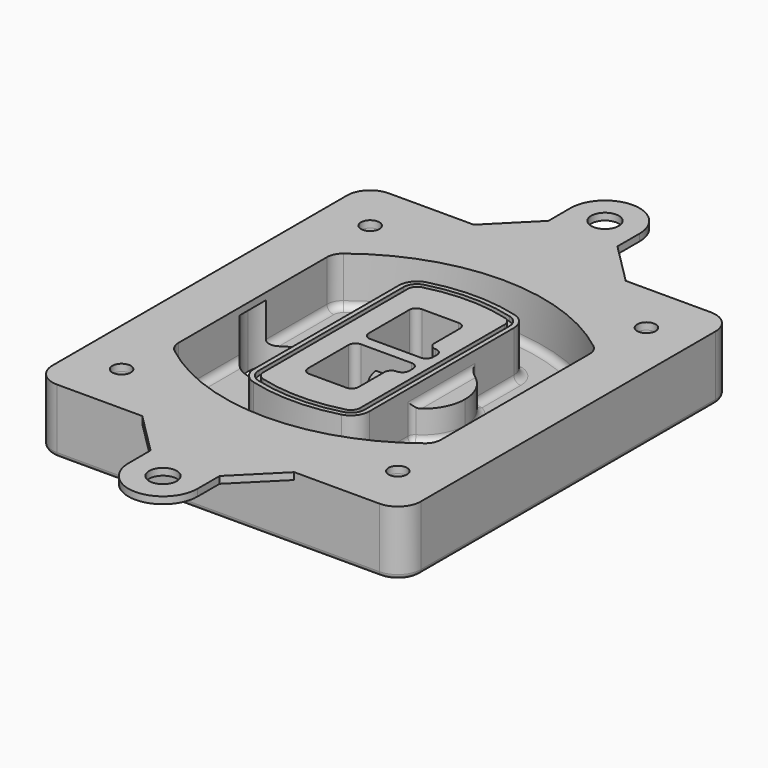
from build123d import *

# Parameters (mm, degrees)
F0_R      = 4
F1_DEPTH  = 25
F2_DEPTH  = 3
F3_DEPTH  = 18
F5_DEPTH  = 21
F6_DEPTH  = 2
F8_DEPTH  = 20
F9_DEPTH  = 16
F10_DEPTH = 25
F7_R      = 6
F7_R_2    = 4
F11_DEPTH = 6
F13_DEPTH = 9
F14_R     = 3
F15_R     = 2
F16_R     = 6
F16_R_2   = 4
F17_DEPTH = 3


with BuildPart() as f1:
    # F0 (on Top) → F1 (new body)
    with BuildSketch(Plane.XY):
        with BuildLine():
            ThreePointArc((14.05, 38.3825811321), (16.9789321881, 31.3115133202), (24.05, 28.3825811321))
            Line((24.05, 28.3825811321), (164.05, 28.3825811321))
            ThreePointArc((164.05, 28.3825811321), (171.1210678119, 31.3115133202), (174.05, 38.3825811321))
            Line((174.05, 38.3825811321), (174.05, 198.3825811321))
            ThreePointArc((174.05, 198.3825811321), (171.1210678119, 205.4536489439), (164.05, 208.3825811321))
            Line((164.05, 208.3825811321), (24.05, 208.3825811321))
            ThreePointArc((24.05, 208.3825811321), (16.9789321881, 205.4536489439), (14.05, 198.3825811321))
            Line((14.05, 198.3825811321), (14.05, 38.3825811321))
        make_face()
        with Locations((34.05, 50.8825811321)):
            Circle(F0_R, mode=Mode.SUBTRACT)
        with Locations((154.05, 50.8825811321)):
            Circle(F0_R, mode=Mode.SUBTRACT)
        with Locations((34.05, 185.8825811321)):
            Circle(F0_R, mode=Mode.SUBTRACT)
        with BuildLine():
            ThreePointArc((30.05, 158.6760234193), (31.4679615202, 164.8154295545), (35.4346153846, 169.7112011673))
            ThreePointArc((35.4346153846, 169.7112011673), (94.05, 189.8825811321), (152.6653846154, 169.7112011673))
            ThreePointArc((152.6653846154, 169.7112011673), (156.6320384798, 164.8154295545), (158.05, 158.6760234193))
            Line((158.05, 158.6760234193), (158.05, 78.0891388448))
            ThreePointArc((158.05, 78.0891388448), (156.6320384798, 71.9497327097), (152.6653846154, 67.0539610969))
            ThreePointArc((152.6653846154, 67.0539610969), (94.05, 46.8825811321), (35.4346153846, 67.0539610969))
            ThreePointArc((35.4346153846, 67.0539610969), (31.4679615202, 71.9497327097), (30.05, 78.0891388448))
            Line((30.05, 78.0891388448), (30.05, 158.6760234193))
        make_face(mode=Mode.SUBTRACT)
        with Locations((154.05, 185.8825811321)):
            Circle(F0_R, mode=Mode.SUBTRACT)
        with BuildLine():
            ThreePointArc((152.6653846154, 169.7112011673), (94.05, 189.8825811321), (35.4346153846, 169.7112011673))
            ThreePointArc((35.4346153846, 169.7112011673), (31.4679615202, 164.8154295545), (30.05, 158.6760234193))
            Line((30.05, 158.6760234193), (30.05, 78.0891388448))
            ThreePointArc((30.05, 78.0891388448), (31.4679615202, 71.9497327097), (35.4346153846, 67.0539610969))
            ThreePointArc((35.4346153846, 67.0539610969), (94.05, 46.8825811321), (152.6653846154, 67.0539610969))
            ThreePointArc((152.6653846154, 67.0539610969), (156.6320384798, 71.9497327097), (158.05, 78.0891388448))
            Line((158.05, 78.0891388448), (158.05, 158.6760234193))
            ThreePointArc((158.05, 158.6760234193), (156.6320384798, 164.8154295545), (152.6653846154, 169.7112011673))
        make_face()
        with BuildLine():
            Line((34.05, 78.0891388448), (34.05, 158.6760234193))
            ThreePointArc((34.05, 158.6760234193), (35.0628296573, 163.0613135158), (37.8961538462, 166.5582932393))
            ThreePointArc((37.8961538462, 166.5582932393), (94.05, 185.8825811321), (150.2038461538, 166.5582932393))
            ThreePointArc((150.2038461538, 166.5582932393), (153.0371703427, 163.0613135158), (154.05, 158.6760234193))
            Line((154.05, 158.6760234193), (154.05, 78.0891388448))
            ThreePointArc((154.05, 78.0891388448), (153.0371703427, 73.7038487483), (150.2038461538, 70.2068690248))
            ThreePointArc((150.2038461538, 70.2068690248), (94.05, 50.8825811321), (37.8961538462, 70.2068690248))
            ThreePointArc((37.8961538462, 70.2068690248), (35.0628296573, 73.7038487483), (34.05, 78.0891388448))
        make_face(mode=Mode.SUBTRACT)
        with BuildLine():
            ThreePointArc((37.8961538462, 166.5582932393), (35.0628296573, 163.0613135158), (34.05, 158.6760234193))
            Line((34.05, 158.6760234193), (34.05, 78.0891388448))
            ThreePointArc((34.05, 78.0891388448), (35.0628296573, 73.7038487483), (37.8961538462, 70.2068690248))
            ThreePointArc((37.8961538462, 70.2068690248), (94.05, 50.8825811321), (150.2038461538, 70.2068690248))
            ThreePointArc((150.2038461538, 70.2068690248), (153.0371703427, 73.7038487483), (154.05, 78.0891388448))
            Line((154.05, 78.0891388448), (154.05, 158.6760234193))
            ThreePointArc((154.05, 158.6760234193), (153.0371703427, 163.0613135158), (150.2038461538, 166.5582932393))
            ThreePointArc((150.2038461538, 166.5582932393), (94.05, 185.8825811321), (37.8961538462, 166.5582932393))
        make_face()
        with BuildLine():
            ThreePointArc((148.3576923077, 164.1936122933), (150.3410192399, 161.7457264869), (151.05, 158.6760234193))
            Line((151.05, 158.6760234193), (151.05, 78.0891388448))
            ThreePointArc((151.05, 78.0891388448), (150.3410192399, 75.0194357772), (148.3576923077, 72.5715499708))
            ThreePointArc((148.3576923077, 72.5715499708), (94.05, 53.8825811321), (39.7423076923, 72.5715499708))
            ThreePointArc((39.7423076923, 72.5715499708), (37.7589807601, 75.0194357772), (37.05, 78.0891388448))
            Line((37.05, 78.0891388448), (37.05, 158.6760234193))
            ThreePointArc((37.05, 158.6760234193), (37.7589807601, 161.7457264869), (39.7423076923, 164.1936122933))
            ThreePointArc((39.7423076923, 164.1936122933), (94.05, 182.8825811321), (148.3576923077, 164.1936122933))
        make_face(mode=Mode.SUBTRACT)
        with BuildLine():
            Line((151.05, 78.0891388448), (151.05, 158.6760234193))
            ThreePointArc((151.05, 158.6760234193), (150.3410192399, 161.7457264869), (148.3576923077, 164.1936122933))
            ThreePointArc((148.3576923077, 164.1936122933), (94.05, 182.8825811321), (39.7423076923, 164.1936122933))
            ThreePointArc((39.7423076923, 164.1936122933), (37.7589807601, 161.7457264869), (37.05, 158.6760234193))
            Line((37.05, 158.6760234193), (37.05, 78.0891388448))
            ThreePointArc((37.05, 78.0891388448), (37.7589807601, 75.0194357772), (39.7423076923, 72.5715499708))
            ThreePointArc((39.7423076923, 72.5715499708), (94.05, 53.8825811321), (148.3576923077, 72.5715499708))
            ThreePointArc((148.3576923077, 72.5715499708), (150.3410192399, 75.0194357772), (151.05, 78.0891388448))
        make_face()
    extrude(amount=-F1_DEPTH)

    # F0 (on Top) → F2 (join)
    with BuildSketch(Plane.XY):
        with BuildLine():
            ThreePointArc((37.8961538462, 166.5582932393), (35.0628296573, 163.0613135158), (34.05, 158.6760234193))
            Line((34.05, 158.6760234193), (34.05, 78.0891388448))
            ThreePointArc((34.05, 78.0891388448), (35.0628296573, 73.7038487483), (37.8961538462, 70.2068690248))
            ThreePointArc((37.8961538462, 70.2068690248), (94.05, 50.8825811321), (150.2038461538, 70.2068690248))
            ThreePointArc((150.2038461538, 70.2068690248), (153.0371703427, 73.7038487483), (154.05, 78.0891388448))
            Line((154.05, 78.0891388448), (154.05, 158.6760234193))
            ThreePointArc((154.05, 158.6760234193), (153.0371703427, 163.0613135158), (150.2038461538, 166.5582932393))
            ThreePointArc((150.2038461538, 166.5582932393), (94.05, 185.8825811321), (37.8961538462, 166.5582932393))
        make_face()
        with BuildLine():
            ThreePointArc((148.3576923077, 164.1936122933), (150.3410192399, 161.7457264869), (151.05, 158.6760234193))
            Line((151.05, 158.6760234193), (151.05, 78.0891388448))
            ThreePointArc((151.05, 78.0891388448), (150.3410192399, 75.0194357772), (148.3576923077, 72.5715499708))
            ThreePointArc((148.3576923077, 72.5715499708), (94.05, 53.8825811321), (39.7423076923, 72.5715499708))
            ThreePointArc((39.7423076923, 72.5715499708), (37.7589807601, 75.0194357772), (37.05, 78.0891388448))
            Line((37.05, 78.0891388448), (37.05, 158.6760234193))
            ThreePointArc((37.05, 158.6760234193), (37.7589807601, 161.7457264869), (39.7423076923, 164.1936122933))
            ThreePointArc((39.7423076923, 164.1936122933), (94.05, 182.8825811321), (148.3576923077, 164.1936122933))
        make_face(mode=Mode.SUBTRACT)
    extrude(amount=F2_DEPTH)

    # F0 (on Top) → F3 (cut)
    with BuildSketch(Plane.XY):
        with BuildLine():
            Line((151.05, 78.0891388448), (151.05, 158.6760234193))
            ThreePointArc((151.05, 158.6760234193), (150.3410192399, 161.7457264869), (148.3576923077, 164.1936122933))
            ThreePointArc((148.3576923077, 164.1936122933), (94.05, 182.8825811321), (39.7423076923, 164.1936122933))
            ThreePointArc((39.7423076923, 164.1936122933), (37.7589807601, 161.7457264869), (37.05, 158.6760234193))
            Line((37.05, 158.6760234193), (37.05, 78.0891388448))
            ThreePointArc((37.05, 78.0891388448), (37.7589807601, 75.0194357772), (39.7423076923, 72.5715499708))
            ThreePointArc((39.7423076923, 72.5715499708), (94.05, 53.8825811321), (148.3576923077, 72.5715499708))
            ThreePointArc((148.3576923077, 72.5715499708), (150.3410192399, 75.0194357772), (151.05, 78.0891388448))
        make_face()
    extrude(amount=-F3_DEPTH, mode=Mode.SUBTRACT)

    # F4 (on face) → F5 (join, through all)
    with BuildSketch(Plane.XY.offset(3)):
        with BuildLine():
            ThreePointArc((69.05, 79.13605345), (70.6988454002, 74.2716074128), (74.9657088123, 71.4123412437))
            ThreePointArc((74.9657088123, 71.4123412437), (94.05, 68.8825811321), (113.1342911877, 71.4123412437))
            ThreePointArc((113.1342911877, 71.4123412437), (117.4011545998, 74.2716074128), (119.05, 79.13605345))
            Line((119.05, 79.13605345), (119.05, 157.6291088141))
            ThreePointArc((119.05, 157.6291088141), (117.4011545998, 162.4935548514), (113.1342911877, 165.3528210204))
            ThreePointArc((113.1342911877, 165.3528210204), (94.05, 167.8825811321), (74.9657088123, 165.3528210204))
            ThreePointArc((74.9657088123, 165.3528210204), (70.6988454002, 162.4935548514), (69.05, 157.6291088141))
            Line((69.05, 157.6291088141), (69.05, 79.13605345))
        make_face()
        with BuildLine():
            ThreePointArc((112.6132183908, 163.4218929688), (115.8133659499, 161.2774433421), (117.05, 157.6291088141))
            Line((117.05, 157.6291088141), (117.05, 79.13605345))
            ThreePointArc((117.05, 79.13605345), (115.8133659499, 75.4877189221), (112.6132183908, 73.3432692953))
            ThreePointArc((112.6132183908, 73.3432692953), (94.05, 70.8825811321), (75.4867816092, 73.3432692953))
            ThreePointArc((75.4867816092, 73.3432692953), (72.2866340501, 75.4877189221), (71.05, 79.13605345))
            Line((71.05, 79.13605345), (71.05, 157.6291088141))
            ThreePointArc((71.05, 157.6291088141), (72.2866340501, 161.2774433421), (75.4867816092, 163.4218929688))
            ThreePointArc((75.4867816092, 163.4218929688), (94.05, 165.8825811321), (112.6132183908, 163.4218929688))
        make_face(mode=Mode.SUBTRACT)
        with BuildLine():
            Line((117.05, 79.13605345), (117.05, 157.6291088141))
            ThreePointArc((117.05, 157.6291088141), (115.8133659499, 161.2774433421), (112.6132183908, 163.4218929688))
            ThreePointArc((112.6132183908, 163.4218929688), (94.05, 165.8825811321), (75.4867816092, 163.4218929688))
            ThreePointArc((75.4867816092, 163.4218929688), (72.2866340501, 161.2774433421), (71.05, 157.6291088141))
            Line((71.05, 157.6291088141), (71.05, 79.13605345))
            ThreePointArc((71.05, 79.13605345), (72.2866340501, 75.4877189221), (75.4867816092, 73.3432692953))
            ThreePointArc((75.4867816092, 73.3432692953), (94.05, 70.8825811321), (112.6132183908, 73.3432692953))
            ThreePointArc((112.6132183908, 73.3432692953), (115.8133659499, 75.4877189221), (117.05, 79.13605345))
        make_face()
        with BuildLine():
            ThreePointArc((112.0921455939, 161.4909649173), (114.2255772999, 160.0613318328), (115.05, 157.6291088141))
            Line((115.05, 157.6291088141), (115.05, 79.13605345))
            ThreePointArc((115.05, 79.13605345), (114.2255772999, 76.7038304314), (112.0921455939, 75.2741973469))
            ThreePointArc((112.0921455939, 75.2741973469), (94.05, 72.8825811321), (76.0078544061, 75.2741973469))
            ThreePointArc((76.0078544061, 75.2741973469), (73.8744227001, 76.7038304314), (73.05, 79.13605345))
            Line((73.05, 79.13605345), (73.05, 157.6291088141))
            ThreePointArc((73.05, 157.6291088141), (73.8744227001, 160.0613318328), (76.0078544061, 161.4909649173))
            ThreePointArc((76.0078544061, 161.4909649173), (94.05, 163.8825811321), (112.0921455939, 161.4909649173))
        make_face(mode=Mode.SUBTRACT)
        with BuildLine():
            Line((115.05, 79.13605345), (115.05, 157.6291088141))
            ThreePointArc((115.05, 157.6291088141), (114.2255772999, 160.0613318328), (112.0921455939, 161.4909649173))
            ThreePointArc((112.0921455939, 161.4909649173), (94.05, 163.8825811321), (76.0078544061, 161.4909649173))
            ThreePointArc((76.0078544061, 161.4909649173), (73.8744227001, 160.0613318328), (73.05, 157.6291088141))
            Line((73.05, 157.6291088141), (73.05, 79.13605345))
            ThreePointArc((73.05, 79.13605345), (73.8744227001, 76.7038304314), (76.0078544061, 75.2741973469))
            ThreePointArc((76.0078544061, 75.2741973469), (94.05, 72.8825811321), (112.0921455939, 75.2741973469))
            ThreePointArc((112.0921455939, 75.2741973469), (114.2255772999, 76.7038304314), (115.05, 79.13605345))
        make_face()
        with BuildLine():
            Line((86.05, 115.8825811321), (108.05, 115.8825811321))
            ThreePointArc((108.05, 115.8825811321), (110.1713203436, 115.0039014756), (111.05, 112.8825811321))
            Line((111.05, 112.8825811321), (111.05, 110.8825811321))
            ThreePointArc((111.05, 110.8825811321), (110.1713203436, 108.7612607885), (108.05, 107.8825811321))
            ThreePointArc((108.05, 107.8825811321), (105.9286796564, 107.0039014756), (105.05, 104.8825811321))
            Line((105.05, 104.8825811321), (105.05, 90.8825811321))
            ThreePointArc((105.05, 90.8825811321), (104.1713203436, 88.7612607885), (102.05, 87.8825811321))
            Line((102.05, 87.8825811321), (86.05, 87.8825811321))
            ThreePointArc((86.05, 87.8825811321), (83.9286796564, 88.7612607885), (83.05, 90.8825811321))
            Line((83.05, 90.8825811321), (83.05, 112.8825811321))
            ThreePointArc((83.05, 112.8825811321), (83.9286796564, 115.0039014756), (86.05, 115.8825811321))
        make_face(mode=Mode.SUBTRACT)
        with BuildLine():
            ThreePointArc((86.05, 120.8825811321), (83.9286796564, 121.7612607885), (83.05, 123.8825811321))
            Line((83.05, 123.8825811321), (83.05, 145.8825811321))
            ThreePointArc((83.05, 145.8825811321), (83.9286796564, 148.0039014756), (86.05, 148.8825811321))
            Line((86.05, 148.8825811321), (102.05, 148.8825811321))
            ThreePointArc((102.05, 148.8825811321), (104.1713203436, 148.0039014756), (105.05, 145.8825811321))
            Line((105.05, 145.8825811321), (105.05, 131.8825811321))
            ThreePointArc((105.05, 131.8825811321), (105.9286796564, 129.7612607885), (108.05, 128.8825811321))
            ThreePointArc((108.05, 128.8825811321), (110.1713203436, 128.0039014756), (111.05, 125.8825811321))
            Line((111.05, 125.8825811321), (111.05, 123.8825811321))
            ThreePointArc((111.05, 123.8825811321), (110.1713203436, 121.7612607885), (108.05, 120.8825811321))
            Line((108.05, 120.8825811321), (86.05, 120.8825811321))
        make_face(mode=Mode.SUBTRACT)
    extrude(amount=-F5_DEPTH)

    # F4 (on face) → F6 (cut)
    with BuildSketch(Plane.XY.offset(3)):
        with BuildLine():
            Line((117.05, 79.13605345), (117.05, 157.6291088141))
            ThreePointArc((117.05, 157.6291088141), (115.8133659499, 161.2774433421), (112.6132183908, 163.4218929688))
            ThreePointArc((112.6132183908, 163.4218929688), (94.05, 165.8825811321), (75.4867816092, 163.4218929688))
            ThreePointArc((75.4867816092, 163.4218929688), (72.2866340501, 161.2774433421), (71.05, 157.6291088141))
            Line((71.05, 157.6291088141), (71.05, 79.13605345))
            ThreePointArc((71.05, 79.13605345), (72.2866340501, 75.4877189221), (75.4867816092, 73.3432692953))
            ThreePointArc((75.4867816092, 73.3432692953), (94.05, 70.8825811321), (112.6132183908, 73.3432692953))
            ThreePointArc((112.6132183908, 73.3432692953), (115.8133659499, 75.4877189221), (117.05, 79.13605345))
        make_face()
        with BuildLine():
            ThreePointArc((112.0921455939, 161.4909649173), (114.2255772999, 160.0613318328), (115.05, 157.6291088141))
            Line((115.05, 157.6291088141), (115.05, 79.13605345))
            ThreePointArc((115.05, 79.13605345), (114.2255772999, 76.7038304314), (112.0921455939, 75.2741973469))
            ThreePointArc((112.0921455939, 75.2741973469), (94.05, 72.8825811321), (76.0078544061, 75.2741973469))
            ThreePointArc((76.0078544061, 75.2741973469), (73.8744227001, 76.7038304314), (73.05, 79.13605345))
            Line((73.05, 79.13605345), (73.05, 157.6291088141))
            ThreePointArc((73.05, 157.6291088141), (73.8744227001, 160.0613318328), (76.0078544061, 161.4909649173))
            ThreePointArc((76.0078544061, 161.4909649173), (94.05, 163.8825811321), (112.0921455939, 161.4909649173))
        make_face(mode=Mode.SUBTRACT)
    extrude(amount=-F6_DEPTH, mode=Mode.SUBTRACT)

    # F7 (on face) → F8 (join)
    with BuildSketch(Plane(origin=(0, 0, -25), x_dir=(1, 0, 0), z_dir=(0, 0, -1))):
        with BuildLine():
            ThreePointArc((97.33842436, -118.3825811321), (110.8067035675, -104.9143019245), (124.274982775, -118.3825811321))
            Line((124.274982775, -118.3825811321), (129.274982775, -118.3825811321))
            ThreePointArc((129.274982775, -118.3825811321), (110.8067035675, -99.9143019245), (92.33842436, -118.3825811321))
            Line((92.33842436, -118.3825811321), (97.33842436, -118.3825811321))
        make_face()
        with BuildLine():
            Line((97.33842436, -118.3825811321), (124.274982775, -118.3825811321))
            ThreePointArc((124.274982775, -118.3825811321), (110.8067035675, -104.9143019245), (97.33842436, -118.3825811321))
        make_face()
        with BuildLine():
            ThreePointArc((97.33842436, -118.3825811321), (110.8067035675, -131.8508603396), (124.274982775, -118.3825811321))
            Line((124.274982775, -118.3825811321), (97.33842436, -118.3825811321))
        make_face()
        with BuildLine():
            Line((129.274982775, -118.3825811321), (124.274982775, -118.3825811321))
            ThreePointArc((124.274982775, -118.3825811321), (110.8067035675, -131.8508603396), (97.33842436, -118.3825811321))
            Line((97.33842436, -118.3825811321), (92.33842436, -118.3825811321))
            ThreePointArc((92.33842436, -118.3825811321), (110.8067035675, -136.8508603396), (129.274982775, -118.3825811321))
        make_face()
    extrude(amount=-F8_DEPTH)

    # F7 (on face) → F9 (cut)
    with BuildSketch(Plane(origin=(0, 0, -25), x_dir=(1, 0, 0), z_dir=(0, 0, -1))):
        with BuildLine():
            Line((97.33842436, -118.3825811321), (124.274982775, -118.3825811321))
            ThreePointArc((124.274982775, -118.3825811321), (110.8067035675, -104.9143019245), (97.33842436, -118.3825811321))
        make_face()
        with BuildLine():
            ThreePointArc((97.33842436, -118.3825811321), (110.8067035675, -131.8508603396), (124.274982775, -118.3825811321))
            Line((124.274982775, -118.3825811321), (97.33842436, -118.3825811321))
        make_face()
    extrude(amount=-F9_DEPTH, mode=Mode.SUBTRACT)

    # F7 (on face) → F10 (cut)
    with BuildSketch(Plane(origin=(0, 0, -25), x_dir=(1, 0, 0), z_dir=(0, 0, -1))):
        with BuildLine():
            Line((35.0181770675, -118.3825811321), (61.9547354825, -118.3825811321))
            ThreePointArc((61.9547354825, -118.3825811321), (48.486456275, -104.9143019245), (35.0181770675, -118.3825811321))
        make_face()
        with BuildLine():
            ThreePointArc((35.0181770675, -118.3825811321), (48.486456275, -131.8508603396), (61.9547354825, -118.3825811321))
            Line((61.9547354825, -118.3825811321), (35.0181770675, -118.3825811321))
        make_face()
    extrude(amount=-F10_DEPTH, mode=Mode.SUBTRACT)

    # F7 (on face) → F11 (cut)
    with BuildSketch(Plane(origin=(0, 0, -25), x_dir=(1, 0, 0), z_dir=(0, 0, -1))):
        with Locations((154.05, -185.8825811321)):
            Circle(F7_R)
        with Locations((154.05, -185.8825811321)):
            Circle(F7_R_2, mode=Mode.SUBTRACT)
        with Locations((154.05, -185.8825811321)):
            Circle(F7_R)
        with Locations((154.05, -185.8825811321)):
            Circle(F7_R_2, mode=Mode.SUBTRACT)
        with Locations((34.05, -185.8825811321)):
            Circle(F7_R)
        with Locations((34.05, -185.8825811321)):
            Circle(F7_R_2, mode=Mode.SUBTRACT)
        with Locations((34.05, -185.8825811321)):
            Circle(F7_R)
        with Locations((34.05, -185.8825811321)):
            Circle(F7_R_2, mode=Mode.SUBTRACT)
        with Locations((34.05, -50.8825811321)):
            Circle(F7_R)
        with Locations((34.05, -50.8825811321)):
            Circle(F7_R_2, mode=Mode.SUBTRACT)
        with Locations((34.05, -50.8825811321)):
            Circle(F7_R)
        with Locations((34.05, -50.8825811321)):
            Circle(F7_R_2, mode=Mode.SUBTRACT)
        with Locations((154.05, -50.8825811321)):
            Circle(F7_R)
        with Locations((154.05, -50.8825811321)):
            Circle(F7_R_2, mode=Mode.SUBTRACT)
        with Locations((154.05, -50.8825811321)):
            Circle(F7_R)
        with Locations((154.05, -50.8825811321)):
            Circle(F7_R_2, mode=Mode.SUBTRACT)
    extrude(amount=-F11_DEPTH, mode=Mode.SUBTRACT)

    # F12 (on face) → F13 (cut, through all)
    with BuildSketch(Plane(origin=(0, 0, -9), x_dir=(1, 0, 0), z_dir=(0, 0, -1))):
        with BuildLine():
            Line((105.05, -104.8825811321), (105.05, -100.8344273567))
            ThreePointArc((105.05, -100.8344273567), (96.6196536419, -106.5586667507), (92.5084157545, -115.8825811321))
            Line((92.5084157545, -115.8825811321), (97.5724848595, -115.8825811321))
            ThreePointArc((97.5724848595, -115.8825811321), (100.2357188154, -110.0369939039), (105.3036447004, -106.0898642673))
            ThreePointArc((105.3036447004, -106.0898642673), (105.1140958889, -105.4994012441), (105.05, -104.8825811321))
        make_face()
        with BuildLine():
            ThreePointArc((105.3036447004, -130.6752979968), (100.2357188154, -126.7281683602), (97.5724848595, -120.8825811321))
            Line((97.5724848595, -120.8825811321), (92.5084157545, -120.8825811321))
            ThreePointArc((92.5084157545, -120.8825811321), (96.6196536419, -130.2064955134), (105.05, -135.9307349074))
            Line((105.05, -135.9307349074), (105.05, -131.8825811321))
            ThreePointArc((105.05, -131.8825811321), (105.1140958889, -131.26576102), (105.3036447004, -130.6752979968))
        make_face()
        with BuildLine():
            ThreePointArc((105.3036447004, -106.0898642673), (100.2357188154, -110.0369939039), (97.5724848595, -115.8825811321))
            Line((97.5724848595, -115.8825811321), (108.05, -115.8825811321))
            ThreePointArc((108.05, -115.8825811321), (110.1713203436, -115.0039014756), (111.05, -112.8825811321))
            Line((111.05, -112.8825811321), (111.05, -110.8825811321))
            ThreePointArc((111.05, -110.8825811321), (110.1713203436, -108.7612607885), (108.05, -107.8825811321))
            ThreePointArc((108.05, -107.8825811321), (106.4101599782, -107.3947365219), (105.3036447004, -106.0898642673))
        make_face()
        with BuildLine():
            Line((108.05, -120.8825811321), (97.5724848595, -120.8825811321))
            ThreePointArc((97.5724848595, -120.8825811321), (100.2357188154, -126.7281683602), (105.3036447004, -130.6752979968))
            ThreePointArc((105.3036447004, -130.6752979968), (106.4101599782, -129.3704257422), (108.05, -128.8825811321))
            ThreePointArc((108.05, -128.8825811321), (110.1713203436, -128.0039014756), (111.05, -125.8825811321))
            Line((111.05, -125.8825811321), (111.05, -123.8825811321))
            ThreePointArc((111.05, -123.8825811321), (110.1713203436, -121.7612607885), (108.05, -120.8825811321))
        make_face()
    extrude(amount=F13_DEPTH, mode=Mode.SUBTRACT)

    # F14
    f14_edges = [f1.edges().sort_by_distance(p)[0] for p in [
        (37.05, 94.679105, -18),
        (37.05, 142.086057, -18),
        (119.05, 118.382581, -5),
        (119.05, 134.909087, -11.5),
        (119.05, 101.856075, -11.5),
        (119.05, 90.496064, -18),
        (129.274983, 118.382581, -18),
    ]]
    fillet(f14_edges, radius=F14_R)

    # F15
    f15_edges = [f1.edges().sort_by_distance(p)[0] for p in [
        (94.05, 28.382581, -25),
    ]]
    fillet(f15_edges, radius=F15_R)

    # F16 (on face) → F17 (join, through all)
    with BuildSketch(Plane.XY):
        with BuildLine():
            Line((79.05, 226.3825811321), (61.05, 208.3825811321))
            Line((61.05, 208.3825811321), (127.05, 208.3825811321))
            Line((127.05, 208.3825811321), (109.05, 226.3825811321))
            Line((109.05, 226.3825811321), (109.05, 238.3825811321))
            ThreePointArc((109.05, 238.3825811321), (94.05, 253.3825811321), (79.05, 238.3825811321))
            Line((79.05, 238.3825811321), (79.05, 226.3825811321))
        make_face()
        with Locations((94.05, 238.3825811321)):
            Circle(F16_R, mode=Mode.SUBTRACT)
        with BuildLine():
            Line((61.05, 208.3825811321), (24.05, 208.3825811321))
            ThreePointArc((24.05, 208.3825811321), (16.9789321881, 205.4536489439), (14.05, 198.3825811321))
            Line((14.05, 198.3825811321), (14.05, 38.3825811321))
            ThreePointArc((14.05, 38.3825811321), (16.9789321881, 31.3115133202), (24.05, 28.3825811321))
            Line((24.05, 28.3825811321), (61.05, 28.3825811321))
            Line((61.05, 28.3825811321), (127.05, 28.3825811321))
            Line((127.05, 28.3825811321), (164.05, 28.3825811321))
            ThreePointArc((164.05, 28.3825811321), (171.1210678119, 31.3115133202), (174.05, 38.3825811321))
            Line((174.05, 38.3825811321), (174.05, 198.3825811321))
            ThreePointArc((174.05, 198.3825811321), (171.1210678119, 205.4536489439), (164.05, 208.3825811321))
            Line((164.05, 208.3825811321), (127.05, 208.3825811321))
            Line((127.05, 208.3825811321), (61.05, 208.3825811321))
        make_face()
        with Locations((34.05, 50.8825811321)):
            Circle(F16_R_2, mode=Mode.SUBTRACT)
        with Locations((154.05, 50.8825811321)):
            Circle(F16_R_2, mode=Mode.SUBTRACT)
        with Locations((34.05, 185.8825811321)):
            Circle(F16_R_2, mode=Mode.SUBTRACT)
        with BuildLine():
            Line((34.05, 78.0891388448), (34.05, 158.6760234193))
            ThreePointArc((34.05, 158.6760234193), (35.0628296573, 163.0613135158), (37.8961538462, 166.5582932393))
            ThreePointArc((37.8961538462, 166.5582932393), (94.05, 185.8825811321), (150.2038461538, 166.5582932393))
            ThreePointArc((150.2038461538, 166.5582932393), (153.0371703427, 163.0613135158), (154.05, 158.6760234193))
            Line((154.05, 158.6760234193), (154.05, 78.0891388448))
            ThreePointArc((154.05, 78.0891388448), (153.0371703427, 73.7038487483), (150.2038461538, 70.2068690248))
            ThreePointArc((150.2038461538, 70.2068690248), (94.05, 50.8825811321), (37.8961538462, 70.2068690248))
            ThreePointArc((37.8961538462, 70.2068690248), (35.0628296573, 73.7038487483), (34.05, 78.0891388448))
        make_face(mode=Mode.SUBTRACT)
        with Locations((154.05, 185.8825811321)):
            Circle(F16_R_2, mode=Mode.SUBTRACT)
        with BuildLine():
            Line((127.05, 28.3825811321), (61.05, 28.3825811321))
            Line((61.05, 28.3825811321), (79.05, 10.3825811321))
            Line((79.05, 10.3825811321), (79.05, -1.6174188679))
            ThreePointArc((79.05, -1.6174188679), (94.05, -16.6174188679), (109.05, -1.6174188679))
            Line((109.05, -1.6174188679), (109.05, 10.3825811321))
            Line((109.05, 10.3825811321), (127.05, 28.3825811321))
        make_face()
        with Locations((94.05, -1.6174188679)):
            Circle(F16_R, mode=Mode.SUBTRACT)
    extrude(amount=F17_DEPTH)


solid = f1.part
